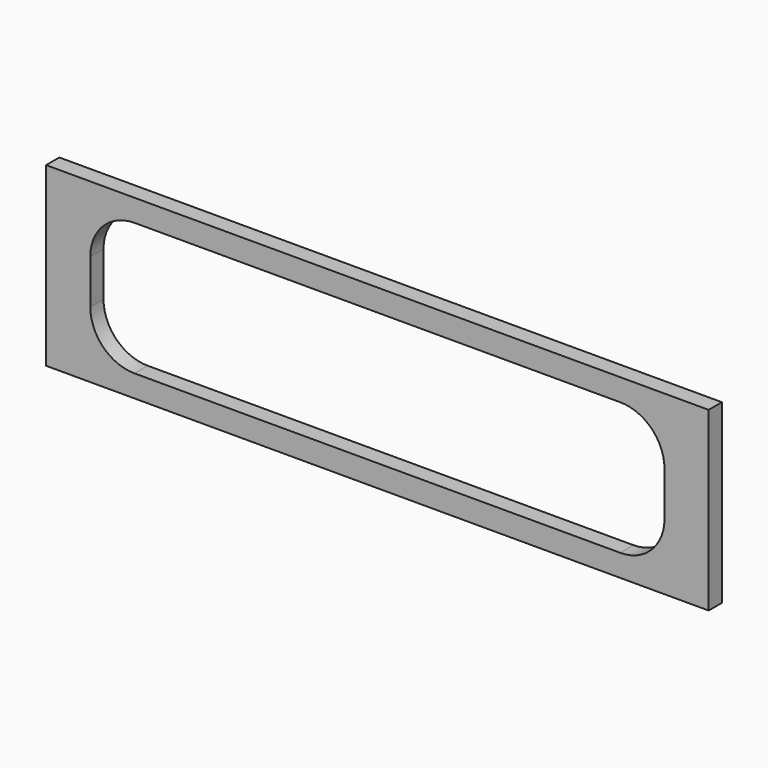
from build123d import *

# Parameters (mm, degrees)
F0_W     = 762
F0_H     = 203.2
F1_DEPTH = 19.05


with BuildPart() as f1:
    # F0 (on Front) → F1 (new body)
    with BuildSketch(Plane.XZ):
        with Locations((381, 101.6)):
            Rectangle(F0_W, F0_H)
        with BuildLine():
            ThreePointArc((50.8, 127), (65.678976, 162.921024), (101.6, 177.8))
            Line((101.6, 177.8), (660.4, 177.8))
            ThreePointArc((660.4, 177.8), (696.321024, 162.921024), (711.2, 127))
            Line((711.2, 127), (711.2, 76.2))
            ThreePointArc((711.2, 76.2), (696.321024, 40.278976), (660.4, 25.4))
            Line((660.4, 25.4), (101.6, 25.4))
            ThreePointArc((101.6, 25.4), (65.678976, 40.278976), (50.8, 76.2))
            Line((50.8, 76.2), (50.8, 127))
        make_face(mode=Mode.SUBTRACT)
    extrude(amount=F1_DEPTH)


solid = f1.part
